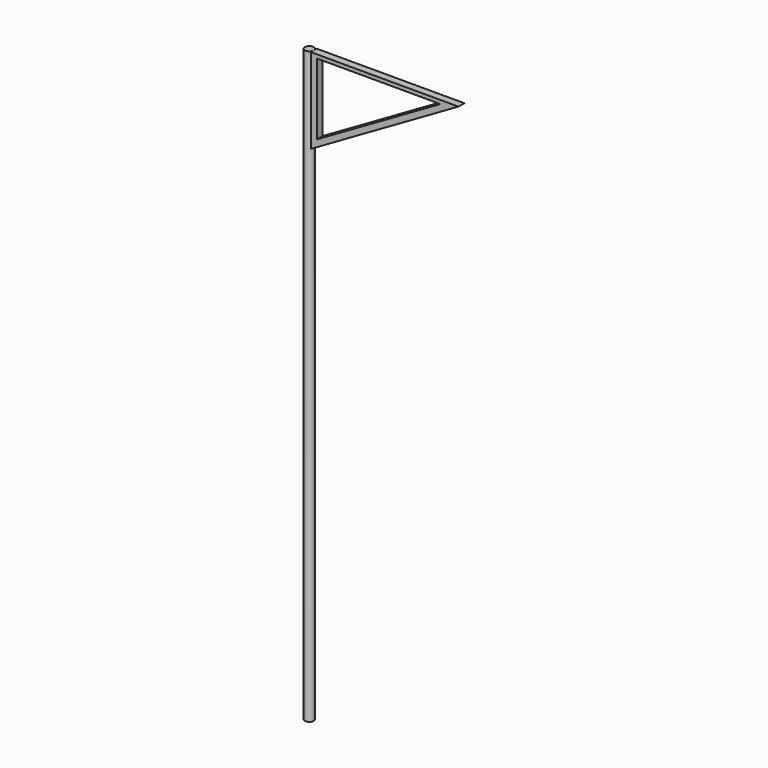
from build123d import *

# Parameters (mm, degrees)
F0_R     = 60.5
F1_DEPTH = 8000
F3_DEPTH = 50


with BuildPart() as f1:
    # F0 (on Top) → F1 (new body)
    with BuildSketch(Plane.XY):
        Circle(F0_R)
    extrude(amount=F1_DEPTH)

    # F2 (on Front) → F3 (join, symmetric)
    with BuildSketch(Plane.XZ):
        Polygon((2061.018683, 8000), (60.5, 8000), (60.5, 6845), align=None)
        Polygon((140.5, 6983.564065), (140.5, 7950), (1814.416142, 7950), align=None, mode=Mode.SUBTRACT)
    extrude(amount=F3_DEPTH, both=True)


solid = f1.part
